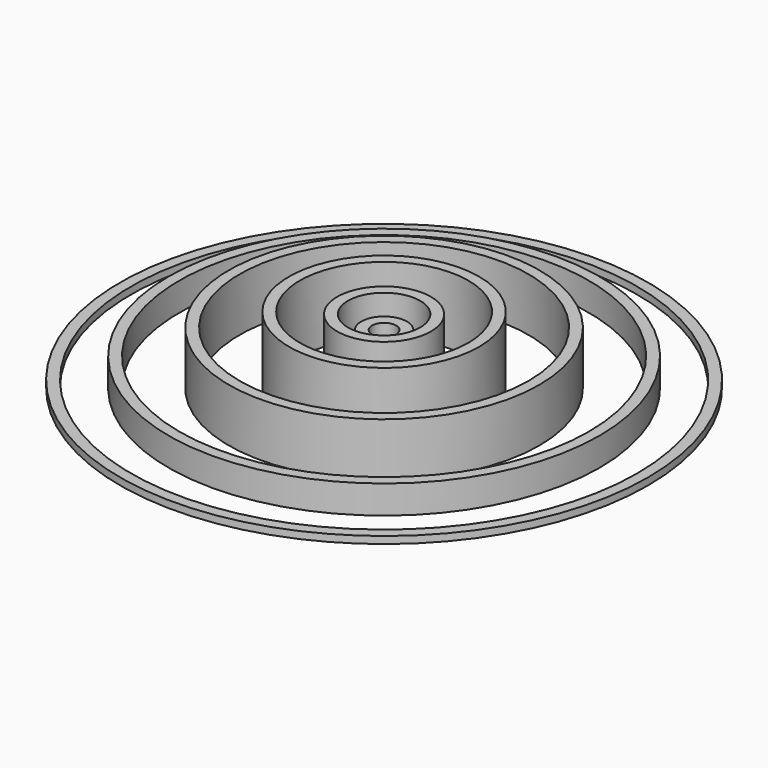
from build123d import *

# Parameters (mm, degrees)
F0_W   = 2.504694
F0_H   = 11.90338
F0_W_2 = 2.501544
F0_H_2 = 15.138451
F0_W_3 = 2.501088
F0_H_3 = 15.630957
F0_W_4 = 2.504211
F0_H_4 = 12.399162
F0_W_5 = 2.51112
F0_H_5 = 6.56496
F0_W_6 = 2.520366
F0_H_6 = 1.644066


with BuildPart() as f1:
    # F0 (on Front) → F1 (revolve)
    with BuildSketch(Plane.XZ):
        Polygon((0.010583, 7.875211), (0, 7.875211), (0, 0), (2.508118, 0), (2.508118, 0.007917), (2.508118, 7.875211), align=None)
        with Locations((4.04746, 5.959607)):
            Rectangle(F0_W, F0_H)
        with Locations((9.63546, 7.577142)):
            Rectangle(F0_W_2, F0_H_2)
        with Locations((20.81146, 7.823396)):
            Rectangle(F0_W_3, F0_H_3)
        with Locations((34.781447, 6.207498)):
            Rectangle(F0_W_4, F0_H_4)
        with Locations((48.751447, 3.290397)):
            Rectangle(F0_W_5, F0_H_5)
        with Locations((59.986305, 0.877428)):
            Rectangle(F0_W_6, F0_H_6)
    revolve(axis=Axis((0, 0, 10.8839), (0, 0, 1)))


solid = f1.part
